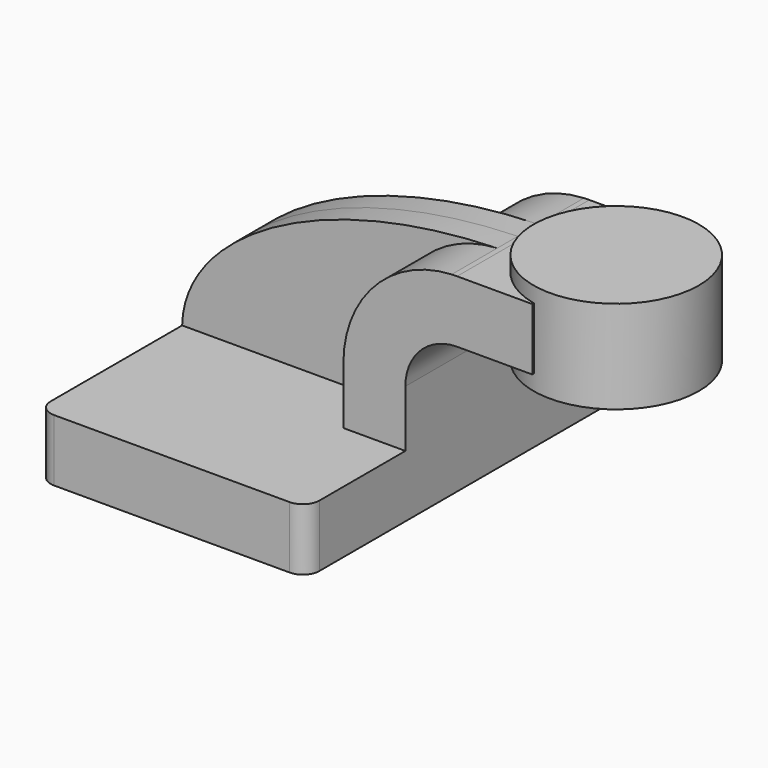
from build123d import *

# Parameters (mm, degrees)
F1_DEPTH = 63.5
F0_W     = 19.9390054388
F0_H     = 19.0500000358
F2_DEPTH = 25.4
F3_DEPTH = 7.9375
F0_W_2   = 25.4
F0_H_2   = 28.575
F5_R     = 5.08


with BuildPart() as f1:
    # F0 (on Front) → F1 (new body, symmetric)
    with BuildSketch(Plane.XZ):
        Polygon((22.2249999642, 9.525), (-41.275, 9.525), (-41.275, -9.525), (41.275, -9.525), (41.275, 9.525), align=None)
    extrude(amount=F1_DEPTH, both=True)

    # F0 (on Front) → F2 (join, symmetric)
    with BuildSketch(Plane.XZ):
        with BuildLine():
            Line((22.2249999642, 27.0002), (22.2249999642, 9.525))
            Line((22.2249999642, 9.525), (41.275, 9.525))
            Line((41.275, 9.525), (41.275, 27.0002))
            ThreePointArc((41.275, 27.0002), (45.9246798487, 38.2255201513), (57.15, 42.8752))
            Line((57.15, 42.8752), (60.325, 42.8752))
            Line((60.325, 42.8752), (60.325, 61.9252000358))
            Line((60.325, 61.9252000358), (57.15, 61.9252000358))
            add(Edge.make_bspline(
                [(55.5009997986, 61.8862491577), (56.0491292612, 61.9014539237), (56.5988031448, 61.9144444348), (57.15, 61.9252000358)],
                knots=[110.4291039898, 110.4291039898, 110.4291039898, 110.4291039898, 111.5045361803, 111.5045361803, 111.5045361803, 111.5045361803], degree=3))
            ThreePointArc((55.5009997986, 61.8862491577), (31.8780099756, 51.1058455566), (22.2249999642, 27.0002))
        make_face()
        with Locations((70.2945027194, 52.4002000179)):
            Rectangle(F0_W, F0_H)
    extrude(amount=F2_DEPTH, both=True)

    # F0 (on Front) → F3 (join, symmetric)
    with BuildSketch(Plane.XZ):
        with BuildLine():
            add(Edge.make_bspline(
                [(-41.275, 9.525), (-40.7824539229, 35.4168247644), (-0.7828328366, 60.3249711005), (55.5009997986, 61.8862491577)],
                knots=[0, 0, 0, 0, 110.4291039898, 110.4291039898, 110.4291039898, 110.4291039898], degree=3))
            Line((-41.275, 9.525), (22.2249999642, 9.525))
            Line((22.2249999642, 9.525), (22.2249999642, 27.0002))
            ThreePointArc((22.2249999642, 27.0002), (31.8780099756, 51.1058455566), (55.5009997986, 61.8862491577))
        make_face()
    extrude(amount=F3_DEPTH, both=True)

    # F0 (on Front) → F4 (revolve)
    with BuildSketch(Plane.XZ):
        with Locations((98.425, 52.3875)):
            Rectangle(F0_W_2, F0_H_2)
    revolve(axis=Axis((85.725, 0, 52.3875), (0, 0, 1)))

    # F5
    f5_edges = [f1.edges().sort_by_distance(p)[0] for p in [
        (-41.275, -63.5, 0),
        (41.275, -63.5, 0),
        (41.275, 63.5, 0),
        (-41.275, 63.5, 0),
    ]]
    fillet(f5_edges, radius=F5_R)


solid = f1.part
